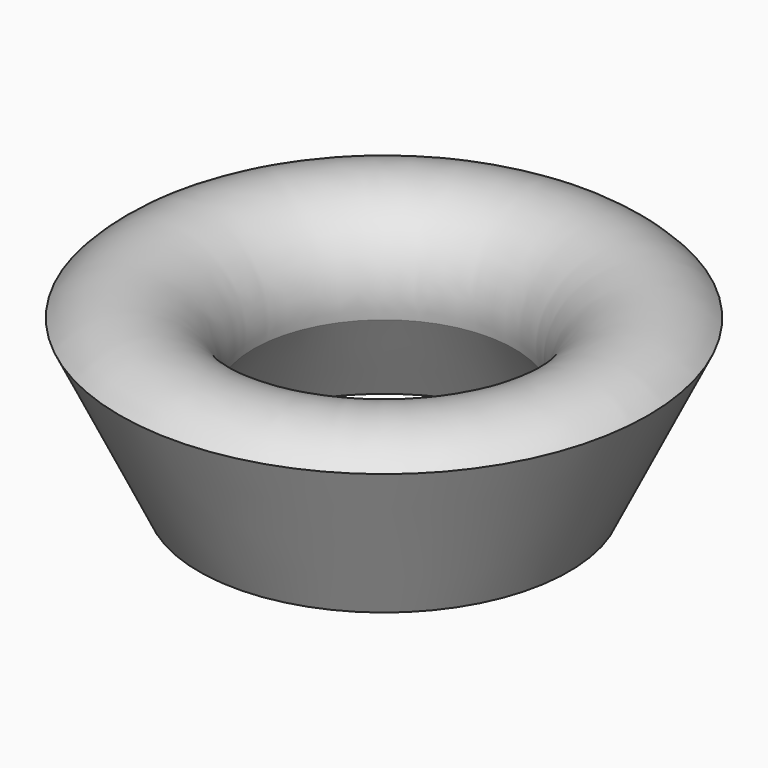
from build123d import *


with BuildPart() as f2:
    # F0 (on Front) → F2 (revolve)
    with BuildSketch(Plane.XZ):
        with BuildLine():
            ThreePointArc((-31.240098, 25.838779), (-40.860176, 46.583799), (-63.356094, 42.480703))
            Line((-63.356094, 42.480703), (-44.378459, 3.357583))
            Line((-44.378459, 3.357583), (-31.240098, 25.838779))
        make_face()
    revolve(axis=Axis((0, 0, 55.838034), (0, 0, 1)))


solid = f2.part
